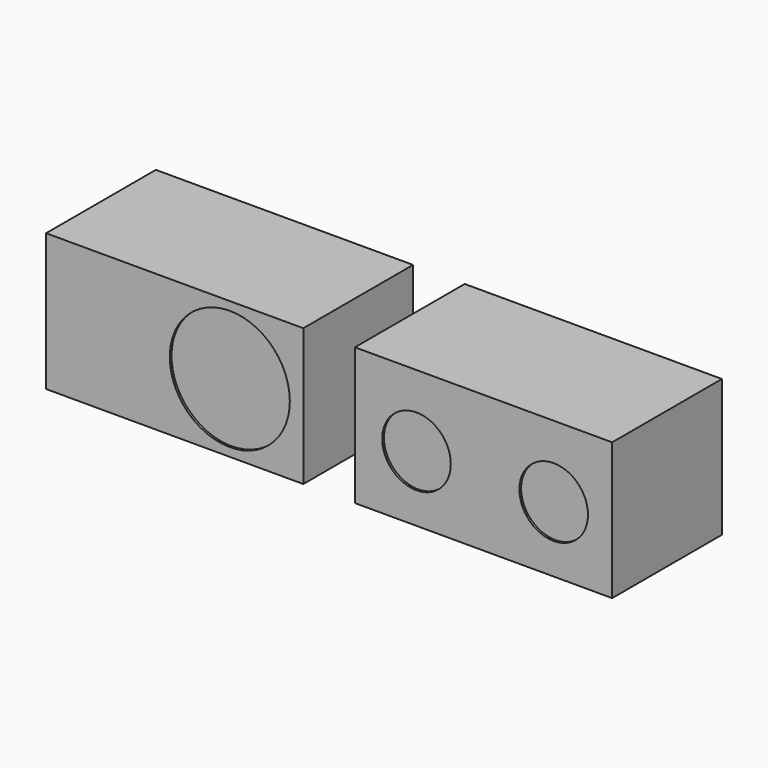
from build123d import *

# Parameters (mm, degrees)
F0_W     = 600
F0_H     = 320
F1_DEPTH = 320
F2_R     = 140
F2_R_2   = 80
F3_DEPTH = 5


with BuildPart() as f1:
    # F0 (on Front) → F1 (new body)
    with BuildSketch(Plane.XZ):
        with Locations((-4.815649, 7.060485)):
            Rectangle(F0_W, F0_H)
        with Locations((715.567279, 7.060485)):
            Rectangle(F0_W, F0_H)
    extrude(amount=F1_DEPTH)

    # F2 (on face) → F3 (cut)
    with BuildSketch(Plane.XZ.offset(320)):
        with Locations((123.719469, 7.060485)):
            Circle(F2_R)
        with Locations((559.143364, 0)):
            Circle(F2_R_2)
        with Locations((879.143364, 0)):
            Circle(F2_R_2)
    extrude(amount=-F3_DEPTH, mode=Mode.SUBTRACT)


solid = f1.part
